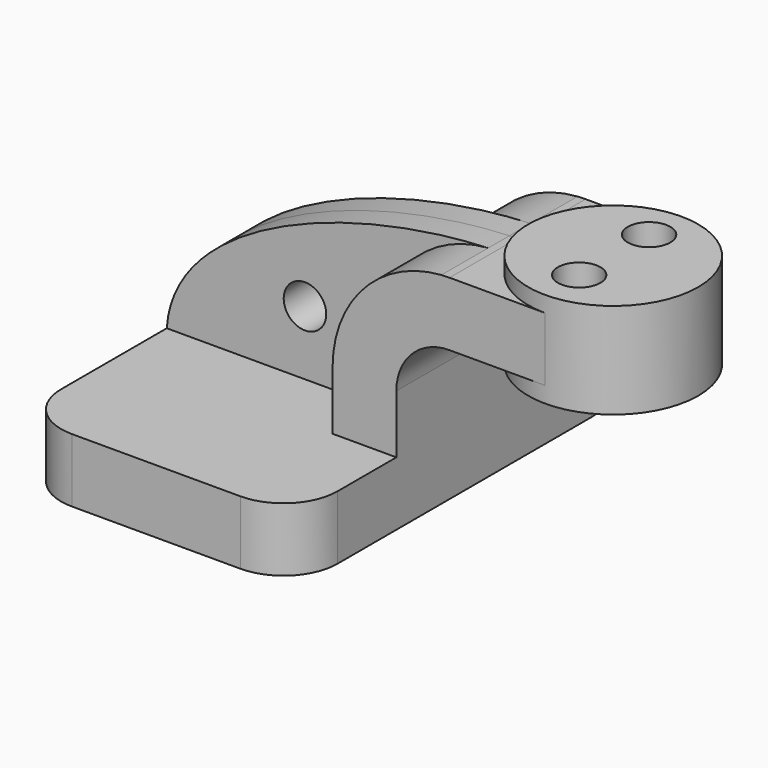
from build123d import *

# Parameters (mm, degrees)
F1_DEPTH = 25
F0_W     = 10
F0_H     = 7.5
F2_DEPTH = 10
F3_DEPTH = 3.125
F5_R     = 6.35
F7_D     = 5
F9_D     = 5


with BuildPart() as f1:
    # F0 (on Front) → F1 (new body, symmetric)
    with BuildSketch(Plane.XZ):
        Polygon((8.75, 3.75), (-16.25, 3.75), (-16.25, -3.75), (16.25, -3.75), (16.25, 3.75), align=None)
    extrude(amount=F1_DEPTH, both=True)

    # F0 (on Front) → F2 (join, symmetric)
    with BuildSketch(Plane.XZ):
        with BuildLine():
            Line((8.75, 10.63), (8.75, 3.75))
            Line((8.75, 3.75), (16.25, 3.75))
            Line((16.25, 3.75), (16.25, 10.63))
            ThreePointArc((16.25, 10.63), (18.0805826176, 15.0494173824), (22.5, 16.88))
            Line((22.5, 16.88), (23.75, 16.88))
            Line((23.75, 16.88), (23.75, 24.38))
            Line((23.75, 24.38), (22.5, 24.38))
            add(Edge.make_bspline(
                [(21.5462434262, 24.3468818759), (21.8653666282, 24.3604124593), (22.1833362267, 24.3714573104), (22.5, 24.38)],
                knots=[43.0852558218, 43.0852558218, 43.0852558218, 43.0852558218, 43.8994236864, 43.8994236864, 43.8994236864, 43.8994236864], degree=3))
            ThreePointArc((21.5462434262, 24.3468818759), (12.4457309343, 20.0094548645), (8.75, 10.63))
        make_face()
        with Locations((28.75, 20.63)):
            Rectangle(F0_W, F0_H)
    extrude(amount=F2_DEPTH, both=True)

    # F0 (on Front) → F3 (join, symmetric)
    with BuildSketch(Plane.XZ):
        Polygon((8.75, 3.75), (-16.25, 3.75), (-16.25, -3.75), (16.25, -3.75), (16.25, 3.75), align=None)
        with BuildLine():
            add(Edge.make_bspline(
                [(-16.25, 3.75), (-15.4599795395, 15.953627077), (4.6584425259, 23.6308518407), (21.5462434262, 24.3468818759)],
                knots=[0, 0, 0, 0, 43.0852558218, 43.0852558218, 43.0852558218, 43.0852558218], degree=3))
            Line((-16.25, 3.75), (8.75, 3.75))
            Line((8.75, 3.75), (8.75, 10.63))
            ThreePointArc((8.75, 10.63), (12.4457309343, 20.0094548645), (21.5462434262, 24.3468818759))
        make_face()
    extrude(amount=F3_DEPTH, both=True)

    # F0 (on Front) → F4 (revolve)
    with BuildSketch(Plane.XZ):
        Polygon((33.75, 26.25), (33.75, 24.38), (33.75, 16.88), (33.75, 15), (43.75, 15), (43.75, 26.25), align=None)
    revolve(axis=Axis((33.75, 0, 20.625), (0, 0, -1)))

    # F5
    f5_edges = [f1.edges().sort_by_distance(p)[0] for p in [
        (-16.25, -25, 0),
        (16.25, -25, 0),
        (16.25, 25, 0),
        (-16.25, 25, 0),
    ]]
    fillet(f5_edges, radius=F5_R)

    # F7 (through all)
    with Locations(Plane.XY.offset(26.25)):
        with Locations((33.7088629603, 5.3247334436), (33.7088629603, -4.9510677345)):
            Hole(F7_D / 2)

    # F9 (through all)
    with Locations(Plane.XZ.offset(3.125)):
        with Locations((0, 11.303381063)):
            Hole(F9_D / 2)


solid = f1.part
